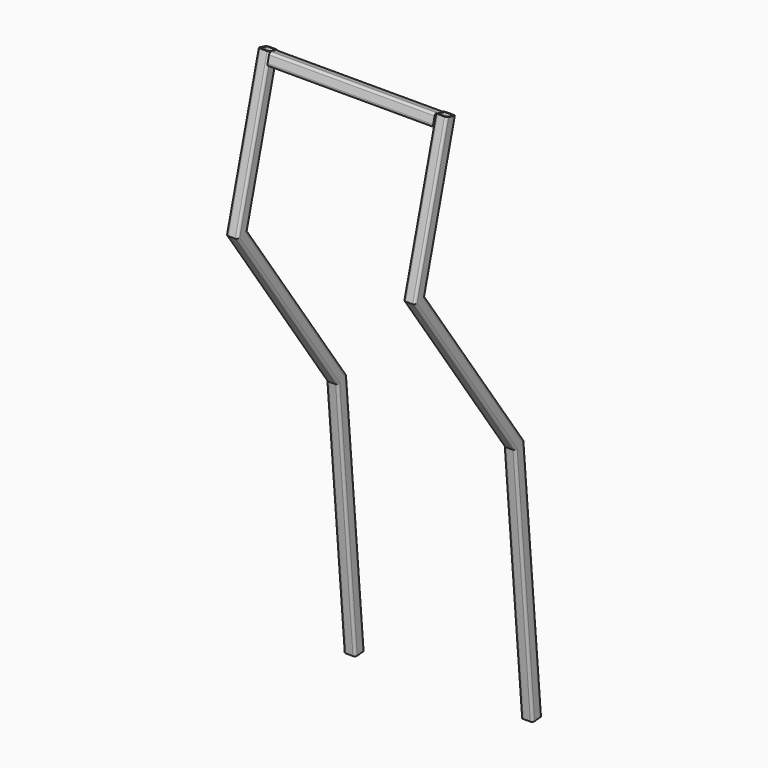
from build123d import *

# Parameters (mm, degrees)
F5_DEPTH = 175


with BuildPart() as f3:
    # F3: sweep along a path in F0
    with BuildLine(Plane.YZ) as f3_path:
        Line((0, 0), (-46.1925436563, 527.9831899886))
        Line((-46.1925436563, 527.9831899886), (-310.0377043777, 904.7931303616))
        Line((-310.0377043777, 904.7931303616), (-227.2156099449, 1213.8893947741))
    # F2 (on line) → F3 (sweep)
    with BuildSketch(Plane(origin=(0, 0, 0), x_dir=(1, 0, 0), z_dir=(0, 0.0871557427, -0.9961946981))):
        with BuildLine():
            ThreePointArc((-12.5, -7.5), (-11.0355339059, -11.0355339059), (-7.5, -12.5))
            Line((-7.5, -12.5), (7.5, -12.5))
            ThreePointArc((7.5, -12.5), (11.0355339059, -11.0355339059), (12.5, -7.5))
            Line((12.5, -7.5), (12.5, 7.5))
            ThreePointArc((12.5, 7.5), (11.0355339059, 11.0355339059), (7.5, 12.5))
            Line((7.5, 12.5), (-7.5, 12.5))
            ThreePointArc((-7.5, 12.5), (-11.0355339059, 11.0355339059), (-12.5, 7.5))
            Line((-12.5, 7.5), (-12.5, -7.5))
        make_face()
        with BuildLine():
            ThreePointArc((10, -7.5), (9.267766953, -9.267766953), (7.5, -10))
            Line((7.5, -10), (-7.5, -10))
            ThreePointArc((-7.5, -10), (-9.267766953, -9.267766953), (-10, -7.5))
            Line((-10, -7.5), (-10, 7.5))
            ThreePointArc((-10, 7.5), (-9.267766953, 9.267766953), (-7.5, 10))
            Line((-7.5, 10), (7.5, 10))
            ThreePointArc((7.5, 10), (9.267766953, 9.267766953), (10, 7.5))
            Line((10, 7.5), (10, -7.5))
        make_face(mode=Mode.SUBTRACT)
    sweep(path=f3_path.line, transition=Transition.RIGHT)

    # F4 (on face) → F5 (join)
    with BuildSketch(Plane(origin=(-12.5, 0, 0), x_dir=(0, -1, 0), z_dir=(-1, 0, 0))):
        with BuildLine():
            Line((234.4600536421, 1215.8305376123), (219.9711662478, 1211.9482519358))
            ThreePointArc((219.9711662478, 1211.9482519358), (216.9351344544, 1209.6186228043), (216.4356323418, 1205.8245275788))
            Line((216.4356323418, 1205.8245275788), (220.3179180184, 1191.3356401845))
            ThreePointArc((220.3179180184, 1191.3356401845), (222.6475471498, 1188.2996083911), (226.4416423753, 1187.8001062786))
            Line((226.4416423753, 1187.8001062786), (240.9305297697, 1191.6823919551))
            ThreePointArc((240.9305297697, 1191.6823919551), (243.9665615631, 1194.0120210866), (244.4660636756, 1197.8061163121))
            Line((244.4660636756, 1197.8061163121), (240.5837779991, 1212.2950037064))
            ThreePointArc((240.5837779991, 1212.2950037064), (238.2541488676, 1215.3310354998), (234.4600536421, 1215.8305376123))
        make_face()
        with BuildLine():
            ThreePointArc((235.1071012549, 1213.4157230466), (237.0041488676, 1213.1659719903), (238.1689634333, 1211.6479560936))
            Line((238.1689634333, 1211.6479560936), (242.0512491099, 1197.1590686993))
            ThreePointArc((242.0512491099, 1197.1590686993), (241.8014980536, 1195.2620210866), (240.2834821569, 1194.0972065208))
            Line((240.2834821569, 1194.0972065208), (225.7945947626, 1190.2149208443))
            ThreePointArc((225.7945947626, 1190.2149208443), (223.8975471498, 1190.4646719006), (222.7327325841, 1191.9826877973))
            Line((222.7327325841, 1191.9826877973), (218.8504469076, 1206.4715751916))
            ThreePointArc((218.8504469076, 1206.4715751916), (219.1001979638, 1208.3686228043), (220.6182138605, 1209.5334373701))
            Line((220.6182138605, 1209.5334373701), (235.1071012549, 1213.4157230466))
        make_face(mode=Mode.SUBTRACT)
    extrude(amount=F5_DEPTH)

    # F6: F3 across face


with BuildPart() as f3_1:
    add(f3.part)
    add(f3.part.mirror(Plane(origin=(-187.5, -230.4508480087, 1201.8153219455), x_dir=(0, -1, 0), z_dir=(-1, 0, 0))))


solid = f3_1.part
